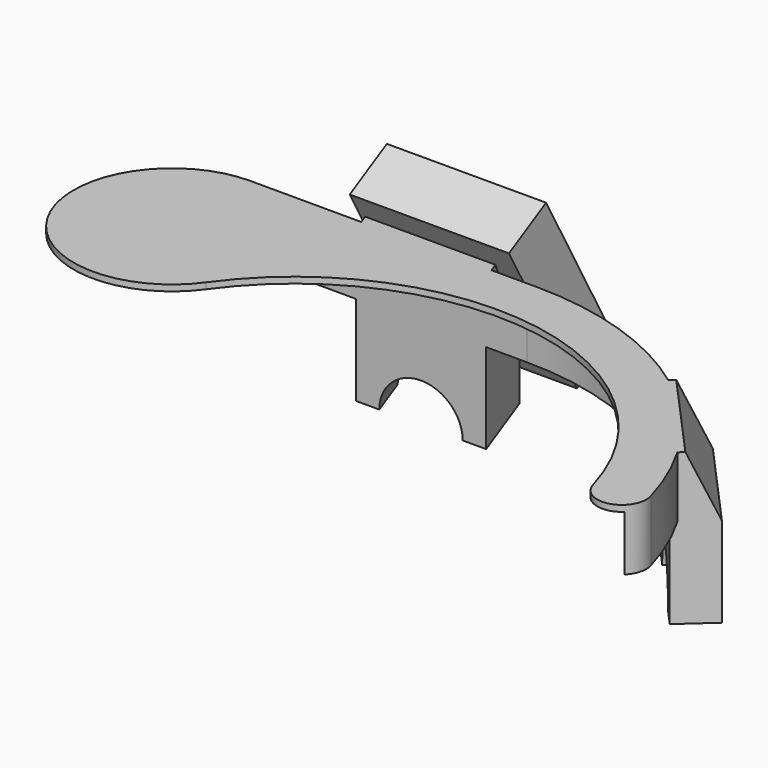
from build123d import *

# Parameters (mm, degrees)
BOX_W           = 39
BOX_H           = 13
BOX_DEPTH       = 43
BOX_ROLL_ANGLE  = 28.9999999999
PAD_DEPTH       = 15
SKETCH002_R     = 71
POCKET_DEPTH    = 13.5
POCKET001_DEPTH = 13.5
PAD001_DEPTH    = 37
PAD002_DEPTH    = 37
SKETCH_R        = 9.6
POCKET002_DEPTH = 42.1884795255
SKETCH009_R     = 9.6
POCKET003_DEPTH = 102.8967715883
SKETCH010_R     = 1.4
POCKET004_DEPTH = 15
SKETCH011_R     = 1.4
POCKET005_DEPTH = 15
POCKET006_DEPTH = 144.6926972187


with BuildPart() as cube:
    # Box → Box (new body)
    with BuildSketch(Plane.XY):
        with Locations((19.5, 6.5)):
            Rectangle(BOX_W, BOX_H)
    extrude(amount=BOX_DEPTH)


with BuildPart() as cube_1:
    # Box roll: moved
    add(cube.part.rotate(Axis((0, 0, 0), (1, 0, 0)), BOX_ROLL_ANGLE))


with BuildPart() as cube_2:
    # Box placement: moved
    add(cube_1.part.moved(Location((-45, 94, -17))))


with BuildPart() as obj1:
    # Sketch001 → Pad (new body)
    with BuildSketch(Plane.XY):
        with BuildLine():
            ThreePointArc((71.2460525222, 20), (44.7436203865, 58.9407196657), (0.1120263421, 73.9999152033))
            Line((0.1120263421, 73.9999152034), (-70, 74.1061334774))
            ThreePointArc((-70, 74.1061334774), (-91.4497033712, 39.0355205986), (-50.4488880948, 36.0403897038))
            ThreePointArc((59.6926362693, 16.7567650582), (10.6923460918, 61.0710548055), (-50.4488880948, 36.0403897038))
            ThreePointArc((59.6926362693, 16.7567650582), (67.0909602367, 12.6016802091), (71.2460525222, 20))
        make_face()
    extrude(amount=PAD_DEPTH)

    # Sketch002 → Pocket (cut)
    with BuildSketch(Plane(origin=(0, 0, 0), x_dir=(1, 0, 0), z_dir=(0, 0, -1))):
        Circle(SKETCH002_R)
    extrude(amount=-POCKET_DEPTH, mode=Mode.SUBTRACT)

    # Sketch003 → Pocket001 (cut)
    with BuildSketch(Plane(origin=(0, 0, 0), x_dir=(1, 0, 0), z_dir=(0, 0, -1))):
        Polygon((-153.2491449427, -71.2322507725), (0.107679068, -70.9999183467), (-35.4631, 35.7409), align=None)
    extrude(amount=-POCKET001_DEPTH, mode=Mode.SUBTRACT)

    # Sketch005 → Pad001 (new body)
    with BuildSketch(Plane.XY.offset(15)):
        Polygon((42.726323515, 58.6554454326), (50.15777177, 65.3467514959), (70.2316899602, 43.0524067311), (62.8002417052, 36.3611006677), align=None)
    extrude(amount=-PAD001_DEPTH)

    # Sketch006 → Pad002 (new body)
    with BuildSketch(Plane.XY.offset(15)):
        Polygon((-41.8276469497, 71.0634495008), (-44.9058282397, 79.5206830879), (-16.7150496161, 89.7812873876), (-9.8847001983, 71.0150565952), align=None)
    extrude(amount=-PAD002_DEPTH)

    # Sketch → Pocket002 (cut, through all)
    with BuildSketch(Plane(origin=(52.7632826102, 47.5082730501, 0), x_dir=(0.6691306063, -0.7431448255, 0), z_dir=(-0.7431448255, -0.6691306063, 0))):
        with Locations((-1e-10, -22)):
            Circle(SKETCH_R)
    extrude(amount=-POCKET002_DEPTH, mode=Mode.SUBTRACT)

    # Sketch009 → Pocket003 (cut, through all)
    with BuildSketch(Plane(origin=(-30.8104389279, 84.6509852378, 0), x_dir=(-0.9396926208, -0.3420201433, 0), z_dir=(-0.3420201433, 0.9396926208, 0))):
        with Locations((0, -22)):
            Circle(SKETCH009_R)
    extrude(amount=-POCKET003_DEPTH, mode=Mode.SUBTRACT)

    # Sketch010 → Pocket004 (cut)
    with BuildSketch(Plane(origin=(0, 0, -22), x_dir=(1, 0, 0), z_dir=(0, 0, -1))):
        with Locations((64.7093131956, -41.7132447282)):
            Circle(SKETCH010_R)
        with Locations((48.2487002796, -59.9946074354)):
            Circle(SKETCH010_R)
    extrude(amount=-POCKET004_DEPTH, mode=Mode.SUBTRACT)

    # Sketch011 → Pocket005 (cut)
    with BuildSketch(Plane(origin=(0, 0, -22), x_dir=(1, 0, 0), z_dir=(0, 0, -1))):
        with Locations((-40.6585574469, -75.7456743709)):
            Circle(SKETCH011_R)
        with Locations((-17.5421189756, -84.1593698967)):
            Circle(SKETCH011_R)
    extrude(amount=-POCKET005_DEPTH, mode=Mode.SUBTRACT)

    # Sketch012 → Pocket006 (cut, through all)
    with BuildSketch(Plane(origin=(10.036959095, -11.1471723824, 0), x_dir=(0.7431448255, 0.6691306063, 0), z_dir=(0.6691306063, -0.7431448255, 0))):
        Polygon((81, 0), (81, 15), (74, 15), align=None)
    extrude(amount=-POCKET006_DEPTH, mode=Mode.SUBTRACT)


solid = Compound([cube_2.part, obj1.part])
